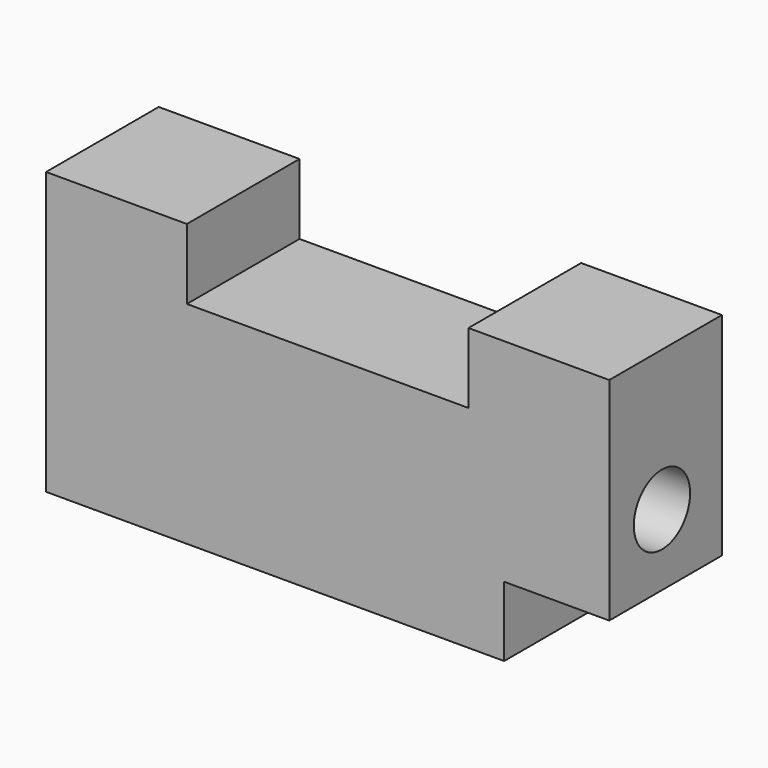
from build123d import *

# Parameters (mm, degrees)
F0_W     = 101.6
F0_H     = 50.8
F1_DEPTH = 25.4
F2_W     = 50.8
F2_H     = 12.7
F3_DEPTH = 25.401
F4_W     = 19.05
F4_H     = 12.7
F5_DEPTH = 25.401
F6_R     = 6.35
F7_DEPTH = 50.801
F8_DEPTH = 50.801


with BuildPart() as f1:
    # F0 (on Front) → F1 (new body)
    with BuildSketch(Plane.XZ):
        Rectangle(F0_W, F0_H)
    extrude(amount=F1_DEPTH)

    # F2 (on face) → F3 (cut, through all)
    with BuildSketch(Plane.XZ.offset(25.4)):
        with Locations((0, 19.05)):
            Rectangle(F2_W, F2_H)
    extrude(amount=-F3_DEPTH, mode=Mode.SUBTRACT)

    # F4 (on Front) → F5 (cut, through all)
    with BuildSketch(Plane.XZ):
        with Locations((41.358551, -19.152182)):
            Rectangle(F4_W, F4_H)
    extrude(amount=F5_DEPTH, mode=Mode.SUBTRACT)

    # F6 (on Right) → F7 (cut, through all)
    with BuildSketch(Plane.YZ):
        with Locations((-13.521904, 0.013301)):
            Circle(F6_R)
    extrude(amount=-F7_DEPTH, mode=Mode.SUBTRACT)

    # F6 (on Right) → F8 (cut, through all)
    with BuildSketch(Plane.YZ):
        with Locations((-13.521904, 0.013301)):
            Circle(F6_R)
    extrude(amount=F8_DEPTH, mode=Mode.SUBTRACT)


solid = f1.part
